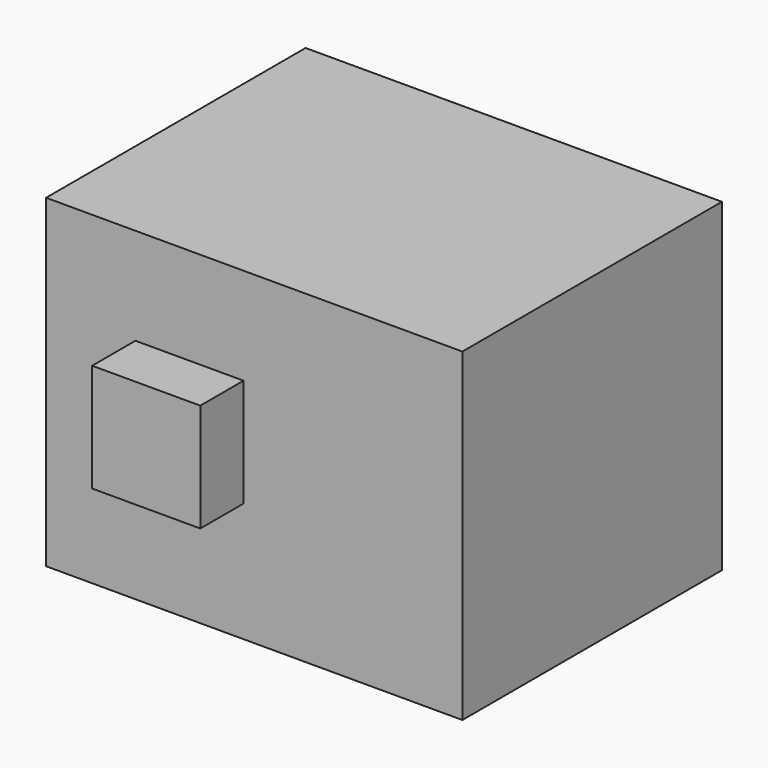
from build123d import *

# Parameters (mm, degrees)
F0_W       = 76.2
F0_H       = 76.2
F1_DEPTH   = 76.2
F2_W       = 25.4
F2_H       = 25.4
F3_DEPTH   = 12.7
F4_R       = 12.7
F1_FACE1_W = 76.2
F1_FACE1_H = 76.2
F5_DEPTH   = 21.59
F6_DEPTH   = 25.4


with BuildPart() as f1:
    # F0 (on Front) → F1 (new body)
    with BuildSketch(Plane.XZ):
        with Locations((-15.8040157244, 72.1577832595)):
            Rectangle(F0_W, F0_H)
    extrude(amount=F1_DEPTH)

    # F2 (on face) → F3 (join)
    with BuildSketch(Plane.XZ.offset(76.2)):
        with Locations((-20.2220443964, 74.8119402349)):
            Rectangle(F2_W, F2_H)
    extrude(amount=F3_DEPTH)

    # F4 (on face) + F1_face1 (on face) → F5 (join)
    with BuildSketch(Plane.YZ.offset(-7.5220443964)):
        with Locations((-5.8702160604, 39.4294373691)):
            Circle(F4_R)
    with BuildSketch(Plane(origin=(22.2959842756, -38.1, 72.1577832595), x_dir=(0, 1, 0), z_dir=(1, 0, 0))):
        Rectangle(F1_FACE1_W, F1_FACE1_H)
    extrude(amount=F5_DEPTH)

    # F4 (on face) → F6 (join)
    with BuildSketch(Plane.YZ.offset(-7.5220443964)):
        with Locations((-5.8702160604, 39.4294373691)):
            Circle(F4_R)
    extrude(amount=F6_DEPTH)


solid = f1.part
